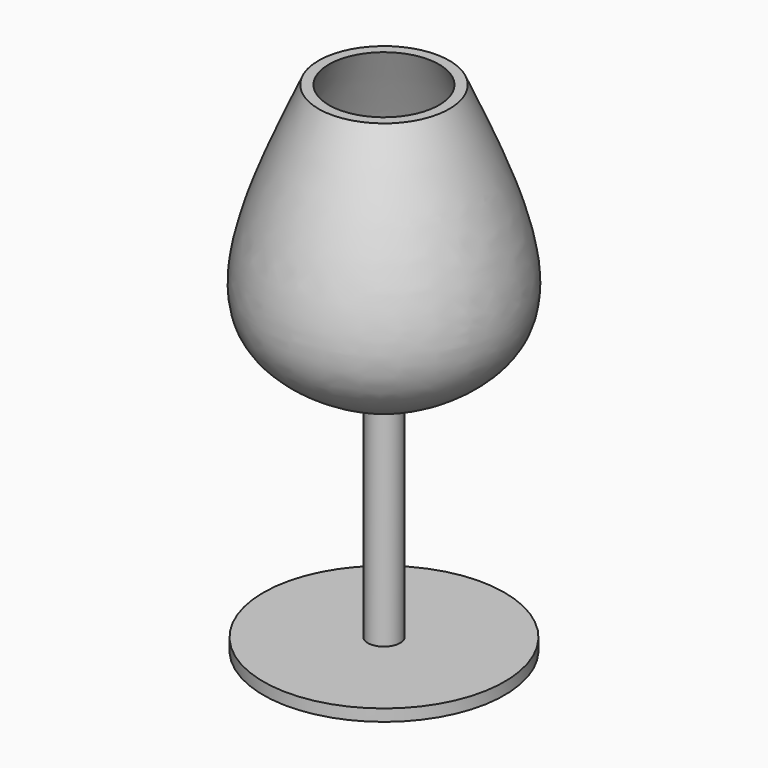
from build123d import *


with BuildPart() as f1:
    # F0 (on Front) → F1 (revolve)
    with BuildSketch(Plane.XZ):
        with BuildLine():
            Line((-33.1873521209, -76.1514306068), (0, -76.1514306068))
            Line((0, -76.1514306068), (0, -12.9714915529))
            add(Edge.make_bspline(
                [(-15.1525391266, 60.8650334179), (-24.371697413, 39.7610810931), (-40.7939116072, 2.1683188633), (-12.4375647234, -8.3555485228), (0, -12.9714915529)],
                knots=[0, 0, 0, 0, 0.5613833907, 1, 1, 1, 1], degree=3))
            Line((-15.1525391266, 60.8650334179), (-17.9934464395, 60.8650334179))
            add(Edge.make_bspline(
                [(-4.4274614193, -15.91845043), (-16.5953144129, -10.5998216497), (-44.4121413216, 1.5590510988), (-27.5049580013, 39.5131256484), (-17.9934464395, 60.8650334179)],
                knots=[0, 0, 0, 0, 0.4374277855, 1, 1, 1, 1], degree=3))
            add(Edge.make_bspline(
                [(-4.4274614193, -72.8955939412), (-4.4274614193, -53.9032127708), (-4.4274614193, -34.9108316004), (-4.4274614193, -15.91845043)],
                knots=[0, 0, 0, 0, 56.9771435112, 56.9771435112, 56.9771435112, 56.9771435112], degree=3))
            Line((-4.4274614193, -72.8955939412), (-33.1873521209, -72.8955939412))
            Line((-33.1873521209, -72.8955939412), (-33.1873521209, -76.1514306068))
        make_face()
    revolve(axis=Axis((0, 0, -0.5888827145), (0, 0, 1)))


solid = f1.part
